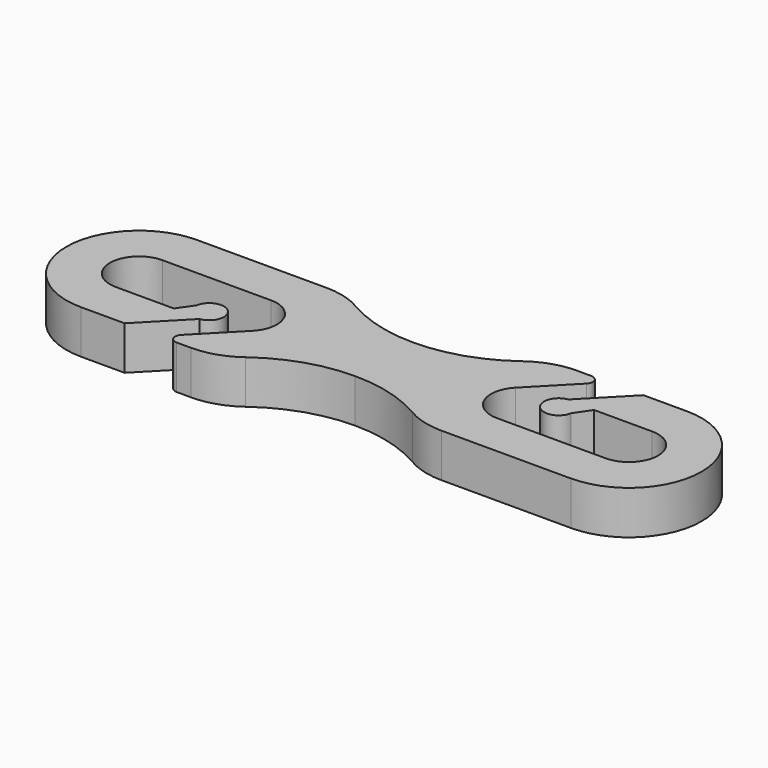
from build123d import *

# Parameters (mm, degrees)
F1_DEPTH = 3


with BuildPart() as f1:
    # F0 (on Top) → F1 (new body)
    with BuildSketch(Plane.XY):
        with BuildLine():
            Line((-7.587425, 5), (-16.5, 5))
            ThreePointArc((-16.5, 5), (-21.5, 0), (-16.5, -5))
            Line((-16.5, -5), (-13.495402, -5))
            Line((-13.495402, -5), (-10.659116, -2.091482))
            ThreePointArc((-10.659116, -2.091482), (-10.068831, -0.40319), (-11.774052, -0.942625))
            Line((-11.774052, -0.942625), (-12.499819, -2))
            Line((-12.499819, -2), (-16.5, -2))
            ThreePointArc((-16.5, -2), (-18.5, 0), (-16.5, 2))
            Line((-16.5, 2), (-9.015757, 2))
            ThreePointArc((-9.015757, 2), (-7.172846, 0.776967), (-7.583875, -1.396322))
            Line((-7.583875, -1.396322), (-10.270064, -4.15092))
            ThreePointArc((-10.270064, -4.15092), (-10.372821, -4.694242), (-9.912093, -5))
            Line((-9.912093, -5), (-8.91878, -5))
            ThreePointArc((-8.91878, -5), (-7.353662, -4.748727), (-5.945853, -4.020163))
            ThreePointArc((-5.945853, -4.020163), (-3.130235, -2.563034), (0, -2.060488))
            ThreePointArc((0, -2.060488), (2.620743, -2.410011), (5.058284, -3.434146))
            ThreePointArc((5.058284, -3.434146), (6.277054, -3.946214), (7.587425, -4.120975))
            Line((7.587425, -4.120975), (16.5, -4.120975))
            ThreePointArc((16.5, -4.120975), (21.5, 0.879025), (16.5, 5.879025))
            Line((16.5, 5.879025), (13.495402, 5.879025))
            Line((13.495402, 5.879025), (10.659116, 2.970507))
            ThreePointArc((10.659116, 2.970507), (10.068831, 1.282214), (11.774052, 1.82165))
            Line((11.774052, 1.82165), (12.499819, 2.879025))
            Line((12.499819, 2.879025), (16.5, 2.879025))
            ThreePointArc((16.5, 2.879025), (18.5, 0.879025), (16.5, -1.120975))
            Line((16.5, -1.120975), (9.015757, -1.120975))
            ThreePointArc((9.015757, -1.120975), (7.172846, 0.102057), (7.583875, 2.275346))
            Line((7.583875, 2.275346), (10.270064, 5.029944))
            ThreePointArc((10.270064, 5.029944), (10.372821, 5.573266), (9.912093, 5.879025))
            Line((9.912093, 5.879025), (8.91878, 5.879025))
            ThreePointArc((8.91878, 5.879025), (7.353662, 5.627751), (5.945853, 4.899187))
            ThreePointArc((5.945853, 4.899187), (3.130235, 3.442059), (0, 2.939512))
            ThreePointArc((0, 2.939512), (-2.620743, 3.289035), (-5.058284, 4.313171))
            ThreePointArc((-5.058284, 4.313171), (-6.277054, 4.825239), (-7.587425, 5))
        make_face()
    extrude(amount=F1_DEPTH)


solid = f1.part
